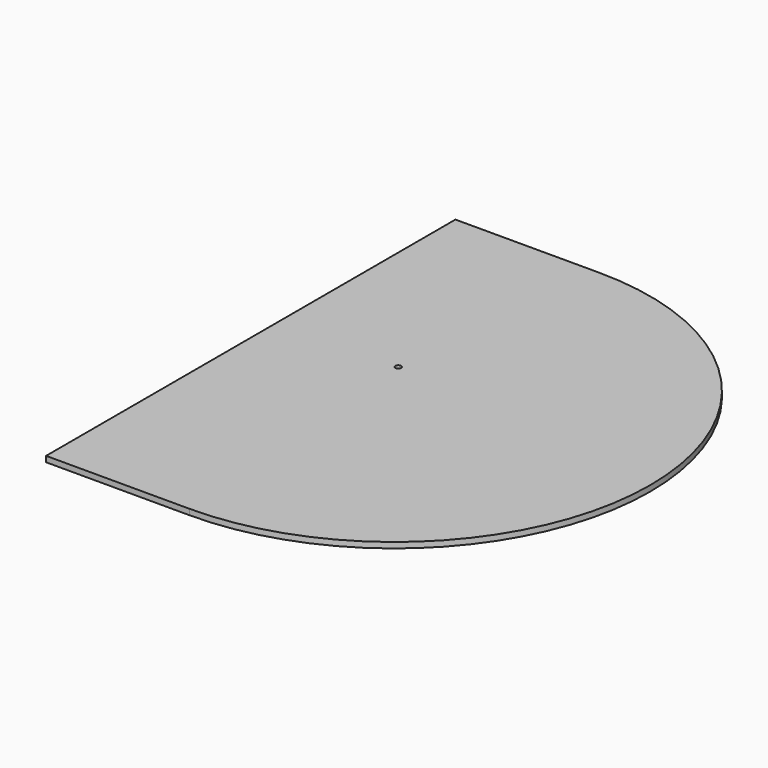
from build123d import *

# Parameters (mm, degrees)
F1_DEPTH = 8
F3_DEPTH = 2
F4_R     = 4
F5_DEPTH = 8
F7_DEPTH = 2


with BuildPart() as f1:
    # F0 (on Top) → F1 (new body)
    with BuildSketch(Plane.XY):
        with BuildLine():
            Line((-102, -360), (0, -360))
            ThreePointArc((0, -360), (360, 0), (0, 360))
            Line((0, 360), (-102, 360))
            Line((-102, 360), (-202, 360))
            Line((-202, 360), (-202, -360))
            Line((-202, -360), (-102, -360))
        make_face()
    extrude(amount=F1_DEPTH)

    # F2 (on face) → F3 (cut)
    with BuildSketch(Plane(origin=(0, 0, 0), x_dir=(1, 0, 0), z_dir=(0, 0, -1))):
        with BuildLine():
            ThreePointArc((0, 350), (350, 0), (0, -350))
            Line((0, -350), (-202, -350))
            Line((-202, -350), (-202, -352))
            Line((-202, -352), (0, -352))
            ThreePointArc((0, -352), (352, 0), (0, 352))
            Line((0, 352), (-202, 352))
            Line((-202, 352), (-202, 350))
            Line((-202, 350), (0, 350))
        make_face()
    extrude(amount=-F3_DEPTH, mode=Mode.SUBTRACT)

    # F4 (on face) → F5 (cut, through all)
    with BuildSketch(Plane.XY.offset(8)):
        with Locations((-32, 47)):
            Circle(F4_R)
    extrude(amount=-F5_DEPTH, mode=Mode.SUBTRACT)

    # F6 (on face) → F7 (cut)
    with BuildSketch(Plane(origin=(0, 0, 0), x_dir=(1, 0, 0), z_dir=(0, 0, -1))):
        with BuildLine():
            Line((-202, -149), (-102, -149))
            ThreePointArc((-102, -149), (-29.875108278, -119.1248916401), (0, -46.9999998841))
            ThreePointArc((0, -46.9999998841), (-29.8751083599, 25.124891722), (-102, 55))
            Line((-102, 55), (-202, 55))
            Line((-202, 55), (-202, -149))
        make_face()
        with BuildLine():
            Line((-202, -149), (-102, -149))
            ThreePointArc((-102, -149), (-29.875108278, -119.1248916401), (0, -46.9999998841))
            ThreePointArc((0, -46.9999998841), (-29.8751083599, 25.124891722), (-102, 55))
            Line((-102, 55), (-202, 55))
            Line((-202, 55), (-202, -149))
        make_face()
    extrude(amount=-F7_DEPTH, mode=Mode.SUBTRACT)


solid = f1.part
